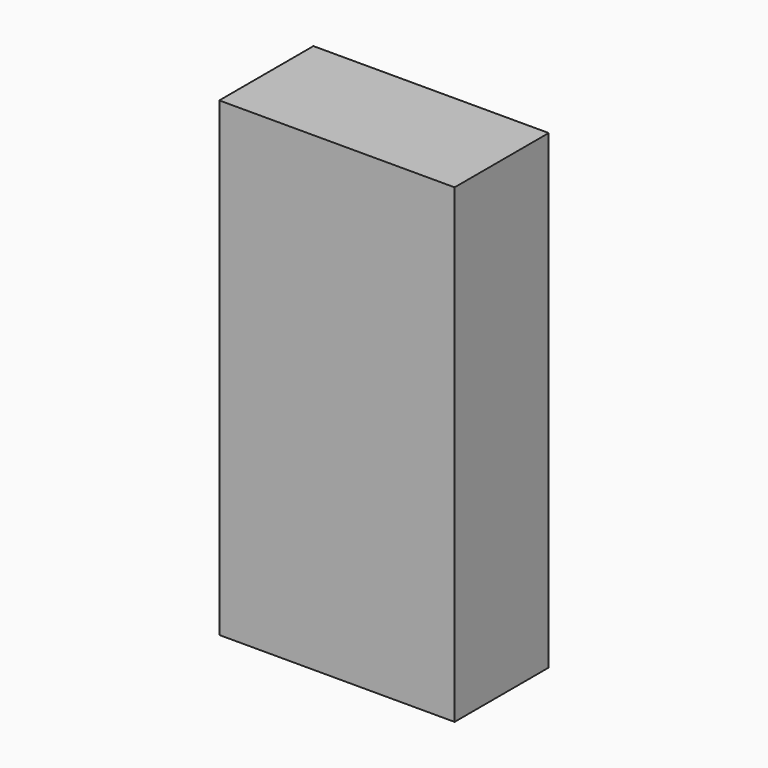
from build123d import *

# Parameters (mm, degrees)
BOX_W     = 10
BOX_H     = 5
BOX_DEPTH = 20


with BuildPart() as part:
    # Box → Box (new body)
    with BuildSketch(Plane.XY):
        with Locations((5, 2.5)):
            Rectangle(BOX_W, BOX_H)
    extrude(amount=BOX_DEPTH)


solid = part.part
